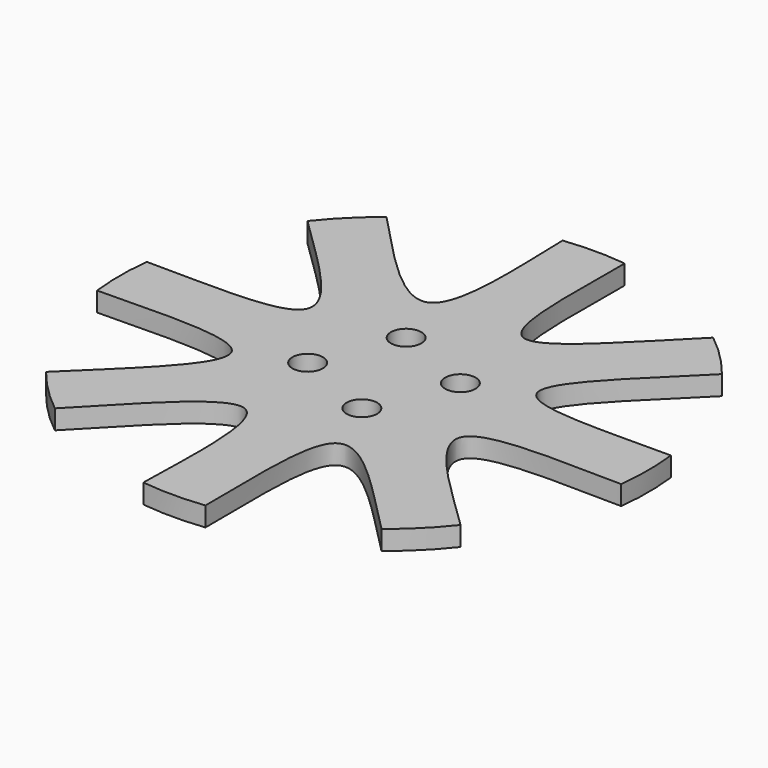
from build123d import *

# Parameters (mm, degrees)
F0_R     = 1.2446
F1_DEPTH = 0.79375
F6_DEPTH = 1.5875


with BuildPart() as f1:
    # F0 (on Top) → F1 (new body, symmetric)
    with BuildSketch(Plane.XY):
        with BuildLine():
            ThreePointArc((-13.3643659864, 16.9564684348), (-15.2664354058, 15.2664354058), (-16.9564684348, 13.3643659864))
            ThreePointArc((-16.9564684348, 13.3643659864), (-16.6604544533, 6.9009861898), (-21.4400676305, 2.54))
            ThreePointArc((-21.4400676305, 2.54), (-21.59, 0), (-21.4400676305, -2.54))
            ThreePointArc((-21.4400676305, -2.54), (-16.6604544533, -6.9009861898), (-16.9564684348, -13.3643659864))
            ThreePointArc((-16.9564684348, -13.3643659864), (-15.2664354058, -15.2664354058), (-13.3643659864, -16.9564684348))
            ThreePointArc((-13.3643659864, -16.9564684348), (-6.9009861898, -16.6604544533), (-2.54, -21.4400676305))
            ThreePointArc((-2.54, -21.4400676305), (0, -21.59), (2.54, -21.4400676305))
            ThreePointArc((2.54, -21.4400676305), (6.9009861898, -16.6604544533), (13.3643659864, -16.9564684348))
            ThreePointArc((13.3643659864, -16.9564684348), (15.2664354058, -15.2664354058), (16.9564684348, -13.3643659864))
            ThreePointArc((16.9564684348, -13.3643659864), (16.6604544533, -6.9009861898), (21.4400676305, -2.54))
            ThreePointArc((21.4400676305, -2.54), (21.59, 0), (21.4400676305, 2.54))
            ThreePointArc((21.4400676305, 2.54), (16.6604544533, 6.9009861898), (16.9564684348, 13.3643659864))
            ThreePointArc((16.9564684348, 13.3643659864), (15.2664354058, 15.2664354058), (13.3643659864, 16.9564684348))
            ThreePointArc((13.3643659864, 16.9564684348), (6.9009861898, 16.6604544533), (2.54, 21.4400676305))
            ThreePointArc((2.54, 21.4400676305), (0, 21.59), (-2.54, 21.4400676305))
            ThreePointArc((-2.54, 21.4400676305), (-6.9009861898, 16.6604544533), (-13.3643659864, 16.9564684348))
        make_face()
        with Locations((-4.6933080252, -1.9440318364)):
            Circle(F0_R, mode=Mode.SUBTRACT)
        with Locations((1.9440318364, -4.6933080252)):
            Circle(F0_R, mode=Mode.SUBTRACT)
        with Locations((-1.9440318364, 4.6933080252)):
            Circle(F0_R, mode=Mode.SUBTRACT)
        with Locations((4.6933080252, 1.9440318364)):
            Circle(F0_R, mode=Mode.SUBTRACT)
    extrude(amount=F1_DEPTH, both=True)

    # F5 (on face) → F6 (cut, through all)
    with BuildSketch(Plane.XY.offset(0.79375)):
        with BuildLine():
            ThreePointArc((21.4400676305, 2.54), (16.6604544533, 6.9009861898), (16.9564684348, 13.3643659864))
            add(Edge.make_bspline(
                [(16.9564684348, 13.3643659864), (12.7702234313, 9.1661904007), (4.5537464117, 1.9143787537), (15.6687479466, 2.5573067833), (21.4400676305, 2.54)],
                knots=[0, 0, 0, 0, 0.5, 1, 1, 1, 1], degree=3))
        make_face()
        with BuildLine():
            ThreePointArc((2.54, -21.4400676305), (6.9009861898, -16.6604544533), (13.3643659864, -16.9564684348))
            add(Edge.make_bspline(
                [(2.54, -21.4400676305), (2.5372293312, -15.7558191568), (1.8345788445, -4.4215889444), (9.3458676711, -12.9474671558), (13.3643659864, -16.9564684348)],
                knots=[0, 0, 0, 0, 0.5, 1, 1, 1, 1], degree=3))
        make_face()
        with BuildLine():
            ThreePointArc((16.9564684348, -13.3643659864), (16.6604544533, -6.9009861898), (21.4400676305, -2.54))
            add(Edge.make_bspline(
                [(21.4400676305, -2.54), (16.1842592061, -2.4963843171), (4.082315581, -1.6922755491), (13.1975738332, -9.6713192761), (16.9564684348, -13.3643659864)],
                knots=[0, 0, 0, 0, 0.5, 1, 1, 1, 1], degree=3))
        make_face()
        with BuildLine():
            ThreePointArc((-13.3643659864, -16.9564684348), (-6.9009861898, -16.6604544533), (-2.54, -21.4400676305))
            add(Edge.make_bspline(
                [(-13.3643659864, -16.9564684348), (-9.9083529785, -13.3942691609), (-1.5885540375, -3.8302056287), (-2.4667936377, -16.4917837828), (-2.54, -21.4400676305)],
                knots=[0, 0, 0, 0, 0.5, 1, 1, 1, 1], degree=3))
        make_face()
        with BuildLine():
            add(Edge.make_bspline(
                [(2.54, 21.4400676305), (2.5480384938, 15.6409479678), (1.8768956976, 4.5266398025), (9.2504248023, 12.8522366285), (13.3643659864, 16.9564684348)],
                knots=[0, 0, 0, 0, 0.5, 1, 1, 1, 1], degree=3))
            ThreePointArc((13.3643659864, 16.9564684348), (6.9009861898, 16.6604544533), (2.54, 21.4400676305))
        make_face()
        with BuildLine():
            add(Edge.make_bspline(
                [(-13.3643659864, 16.9564684348), (-10.1164951921, 13.5911004618), (-1.4928890483, 3.6003961955), (-2.4499814026, 16.7545713484), (-2.54, 21.4400676305)],
                knots=[0, 0, 0, 0, 0.5, 1, 1, 1, 1], degree=3))
            ThreePointArc((-2.54, 21.4400676305), (-6.9009861898, 16.6604544533), (-13.3643659864, 16.9564684348))
        make_face()
        with BuildLine():
            add(Edge.make_bspline(
                [(-16.9564684348, 13.3643659864), (-12.9633266479, 9.4111068174), (-4.3837218341, 1.8060450999), (-15.8156938851, 2.5290576741), (-21.4400676305, 2.54)],
                knots=[0, 0, 0, 0, 0.5, 1, 1, 1, 1], degree=3))
            ThreePointArc((-16.9564684348, 13.3643659864), (-16.6604544533, 6.9009861898), (-21.4400676305, 2.54))
        make_face()
        with BuildLine():
            add(Edge.make_bspline(
                [(-21.4400676305, -2.54), (-16.1078236997, -2.4722644594), (-4.1337008384, -1.7207956731), (-13.1712388247, -9.6383988857), (-16.9564684348, -13.3643659864)],
                knots=[0, 0, 0, 0, 0.5, 1, 1, 1, 1], degree=3))
            ThreePointArc((-21.4400676305, -2.54), (-16.6604544533, -6.9009861898), (-16.9564684348, -13.3643659864))
        make_face()
    extrude(amount=-F6_DEPTH, mode=Mode.SUBTRACT)


solid = f1.part
